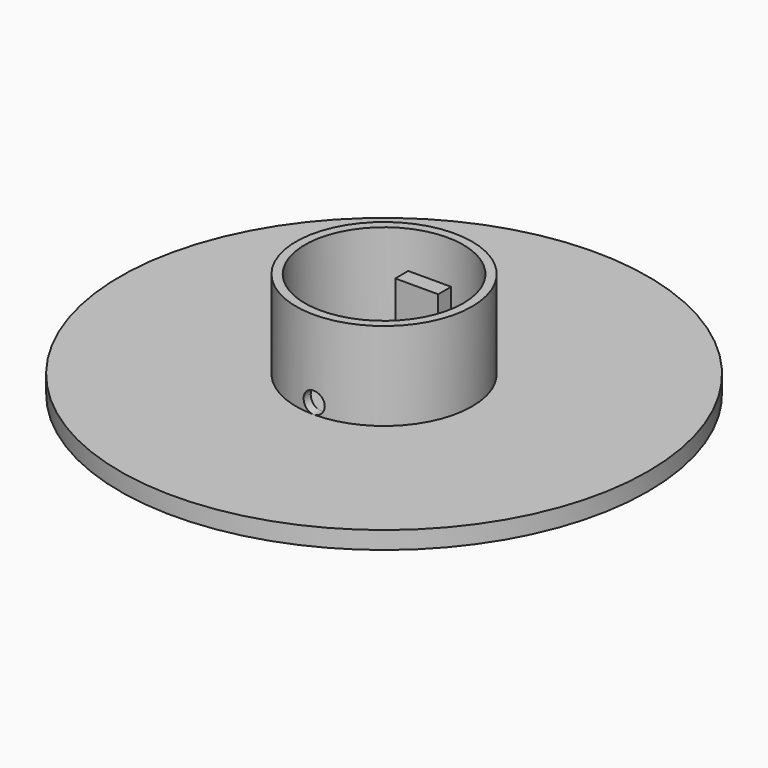
from build123d import *

# Parameters (mm, degrees)
SKETCH_R       = 75
PAD_DEPTH      = 5
SKETCH001_R    = 25
PAD001_DEPTH   = 25
SKETCH002_R    = 22.5
POCKET_DEPTH   = 25
SKETCH003_W    = 12.2
SKETCH003_H    = 4.6
PAD002_DEPTH   = 17.2
CYLINDER_R     = 3
CYLINDER_DEPTH = 16


with BuildPart() as part:
    # Sketch → Pad (new body)
    with BuildSketch(Plane.XY):
        Circle(SKETCH_R)
    extrude(amount=PAD_DEPTH)

    # Sketch001 (on Face3 of Pad) → Pad001 (join)
    with BuildSketch(Plane.XY.offset(5)):
        Circle(SKETCH001_R)
    extrude(amount=PAD001_DEPTH)

    # Sketch002 (on Face5 of Pad001) → Pocket (cut)
    with BuildSketch(Plane.XY.offset(30)):
        Circle(SKETCH002_R)
    extrude(amount=-POCKET_DEPTH, mode=Mode.SUBTRACT)

    # Sketch003 (on Face7 of Pocket) → Pad002 (join)
    with BuildSketch(Plane.XY.offset(5)):
        with Locations((0, 13.9)):
            Rectangle(SKETCH003_W, SKETCH003_H)
        with Locations((0, -13.9)):
            Rectangle(SKETCH003_W, SKETCH003_H)
    extrude(amount=PAD002_DEPTH)

    # Cylinder → Cylinder (cut)
    with BuildSketch(Plane(origin=(0, -10.2, 8), x_dir=(1, 0, 0), z_dir=(0, -1, 0))):
        Circle(CYLINDER_R)
    extrude(amount=CYLINDER_DEPTH, mode=Mode.SUBTRACT)


solid = part.part
